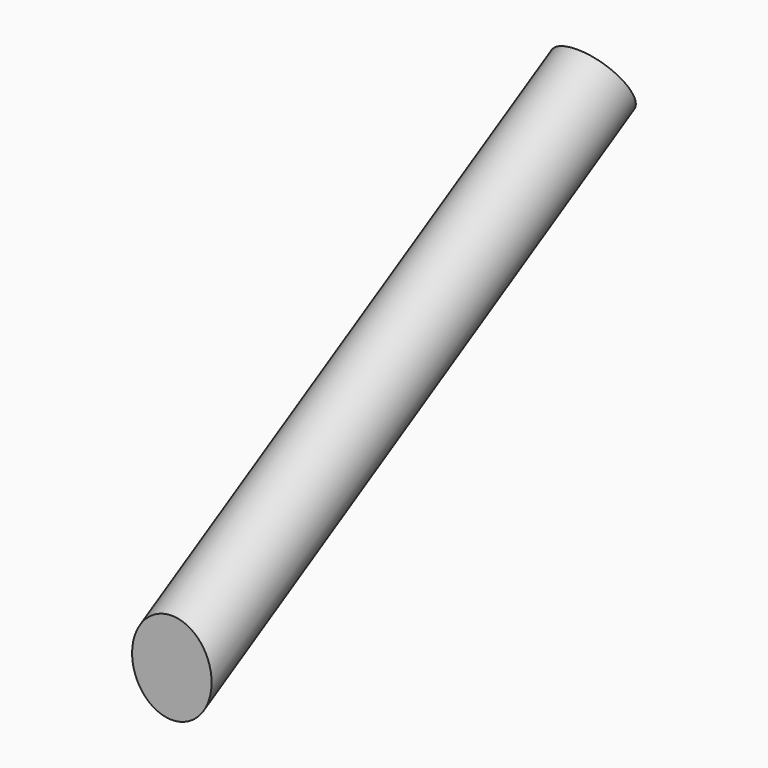
from build123d import *

# Parameters (mm, degrees)
F0_R     = 4
F1_DEPTH = 63.5
F3_ANGLE = 30
F4_W     = 20
F4_H     = 20
F5_DEPTH = 4.001


with BuildPart() as f1:
    # F0 (on Front) → F1 (new body)
    with BuildSketch(Plane.XZ):
        with Locations((0, 4)):
            Circle(F0_R)
    extrude(amount=-F1_DEPTH)


with BuildPart() as f1_1:
    # F3: moved
    add(f1.part.rotate(Axis((2.8749, 0, 0), (1, 0, 0)), F3_ANGLE))

    # F4 (on Front) → F5 (cut, through all)
    with BuildSketch(Plane.XZ):
        Rectangle(F4_W, F4_H)
    extrude(amount=F5_DEPTH, mode=Mode.SUBTRACT)


solid = f1_1.part
